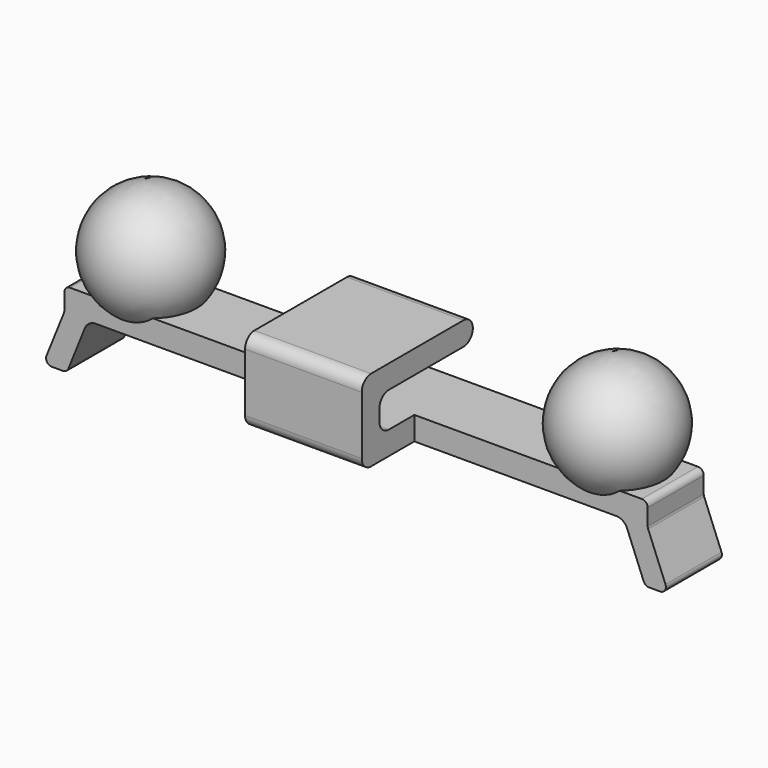
from build123d import *

# Parameters (mm, degrees)
F3_DEPTH      = 3
F3_DEPTH_BACK = 3
F5_DEPTH      = 5
F5_DEPTH_BACK = 5


with BuildPart() as f2:
    # F0 (on Front) → F2 (revolve)
    with BuildSketch(Plane.XZ):
        with BuildLine():
            Line((-25, 5), (-15.0003286976, 5.0810792445))
            ThreePointArc((-15.0003286976, 5.0810792445), (-20.040703971, 10.0403752734), (-25, 5))
        make_face()
    revolve(axis=Axis((-20.0001643488, 0, 5.0405396222), (0.9999671302, 0, 0.0081079244)))

    # F0 (on Front) → F3 (join, two sides)
    with BuildSketch(Plane.XZ) as f3_sk:
        with BuildLine():
            ThreePointArc((-23.2302926299, -0.6269286958), (-22.8623688248, -0.1714255301), (-22.3024899558, 0))
            Line((-22.3024899558, 0), (0, 0))
            Line((0, 0), (0, 2))
            Line((0, 2), (-24.5, 2))
            ThreePointArc((-24.5, 2), (-24.8535533906, 1.8535533906), (-25, 1.5))
            Line((-25, 1.5), (-25, 0.0967607601))
            ThreePointArc((-25, 0.0967607601), (-25.0091076144, 0.0017625194), (-25.036098663, -0.089774892))
            Line((-25.036098663, -0.089774892), (-26.5228529957, -3.7872306599))
            ThreePointArc((-26.5228529957, -3.7872306599), (-26.4732388936, -4.2537057465), (-26.0589516587, -4.473766312))
            Line((-26.0589516587, -4.473766312), (-25.1149703996, -4.473766312))
            ThreePointArc((-25.1149703996, -4.473766312), (-24.8350309651, -4.3880535469), (-24.6510690626, -4.1603019641))
            Line((-24.6510690626, -4.1603019641), (-23.2302926299, -0.6269286958))
        make_face()
        with BuildLine():
            ThreePointArc((-23.2302926299, -0.6269286958), (-22.8623688248, -0.1714255301), (-22.3024899558, 0))
            Line((-22.3024899558, 0), (0, 0))
            Line((0, 0), (0, 2))
            Line((0, 2), (-24.5, 2))
            ThreePointArc((-24.5, 2), (-24.8535533906, 1.8535533906), (-25, 1.5))
            Line((-25, 1.5), (-25, 0.0967607601))
            ThreePointArc((-25, 0.0967607601), (-25.0091076144, 0.0017625194), (-25.036098663, -0.089774892))
            Line((-25.036098663, -0.089774892), (-26.5228529957, -3.7872306599))
            ThreePointArc((-26.5228529957, -3.7872306599), (-26.4732388936, -4.2537057465), (-26.0589516587, -4.473766312))
            Line((-26.0589516587, -4.473766312), (-25.1149703996, -4.473766312))
            ThreePointArc((-25.1149703996, -4.473766312), (-24.8350309651, -4.3880535469), (-24.6510690626, -4.1603019641))
            Line((-24.6510690626, -4.1603019641), (-23.2302926299, -0.6269286958))
        make_face()
    extrude(amount=-F3_DEPTH)
    extrude(f3_sk.sketch, amount=F3_DEPTH_BACK)

    # F4: F2 across plane


with BuildPart() as f2_1:
    add(f2.part)
    add(f2.part.mirror(Plane.YZ))

    # F1 (on Right) → F5 (join, two sides)
    with BuildSketch(Plane.YZ) as f5_sk:
        with BuildLine():
            Line((-7.6333043873, 0), (0, 0))
            Line((0, 0), (0, 2))
            Line((0, 2), (-5.738430818, 2))
            ThreePointArc((-5.738430818, 2), (-6.4455375992, 2.2928932188), (-6.738430818, 3))
            Line((-6.738430818, 3), (-6.738430818, 4))
            ThreePointArc((-6.738430818, 4), (-6.4455375992, 4.7071067812), (-5.738430818, 5))
            Line((-5.738430818, 5), (2.2644215971, 5))
            ThreePointArc((2.2644215971, 5), (2.9715283783, 5.2928932188), (3.2644215971, 6))
            ThreePointArc((3.2644215971, 6), (2.9715283783, 6.7071067812), (2.2644215971, 7))
            Line((2.2644215971, 7), (-7.6333043873, 7))
            ThreePointArc((-7.6333043873, 7), (-8.3404111685, 6.7071067812), (-8.6333043873, 6))
            Line((-8.6333043873, 6), (-8.6333043873, 1))
            ThreePointArc((-8.6333043873, 1), (-8.3404111685, 0.2928932188), (-7.6333043873, 0))
        make_face()
    extrude(amount=F5_DEPTH)
    extrude(f5_sk.sketch, amount=-F5_DEPTH_BACK)


solid = f2_1.part
